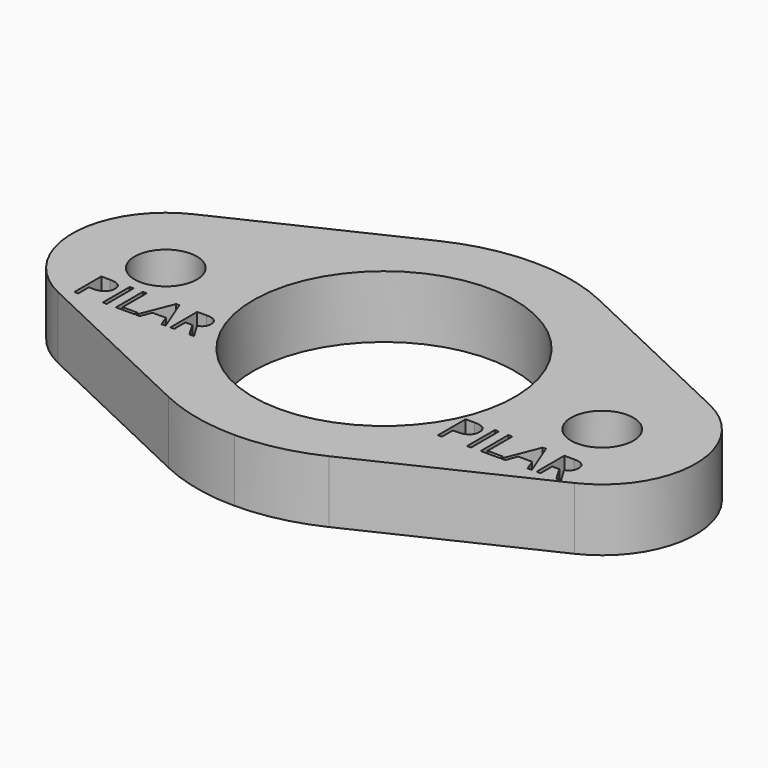
from build123d import *

# Parameters (mm, degrees)
F0_W     = 0.6460093453
F0_H     = 5.5586001861
F0_R     = 5
F0_W_2   = 0.6280364187
F0_H_2   = 5.4039517833
F1_DEPTH = 10


with BuildPart() as f1:
    # F0 (on Top) → F1 (new body)
    with BuildSketch(Plane.XY):
        with BuildLine():
            ThreePointArc((0, 21), (21, 0), (0, -21))
            Line((0, -21), (0, -30))
            ThreePointArc((0, -30), (6.5894949497, -29.2673633303), (12.8571428571, -27.1052370872))
            Line((12.8571428571, -27.1052370872), (41.4285714286, -13.5526185436))
            ThreePointArc((41.4285714286, -13.5526185436), (50, 0), (41.4285714286, 13.5526185436))
            Line((41.4285714286, 13.5526185436), (12.8571428571, 27.1052370872))
            ThreePointArc((12.8571428571, 27.1052370872), (6.5894949497, 29.2673633303), (0, 30))
            Line((0, 30), (0, 21))
        make_face()
        with BuildLine():
            add(Edge.make_bspline(
                [(21.3959532578, -8.5758308066), (23.4787555162, -8.5758308066), (23.4787555162, -10.1951122353)],
                knots=[0, 0, 0, 1, 1, 1], degree=2))
            add(Edge.make_bspline(
                [(23.4787555162, -10.1951122353), (23.4787555162, -11.0394257676), (22.9027001019, -11.4938221715)],
                knots=[0, 0, 0, 1, 1, 1], degree=2))
            add(Edge.make_bspline(
                [(22.9027001019, -11.4938221715), (22.3266446875, -11.9482185755), (21.2548288057, -11.9482185755)],
                knots=[0, 0, 0, 1, 1, 1], degree=2))
            Line((21.2548288057, -11.9482185755), (20.6003033297, -11.9482185755))
            Line((20.6003033297, -11.9482185755), (20.6003033297, -14.1344309927))
            Line((20.6003033297, -14.1344309927), (19.9542939844, -14.1344309927))
            Line((19.9542939844, -14.1344309927), (19.9542939844, -8.5758308066))
            Line((19.9542939844, -8.5758308066), (21.3959532578, -8.5758308066))
        make_face(mode=Mode.SUBTRACT)
        with Locations((24.9648203285, -11.3551308997)):
            Rectangle(F0_W, F0_H, mode=Mode.SUBTRACT)
        Polygon((29.9108673971, -14.1344309927), (26.8122124017, -14.1344309927), (26.8122124017, -8.5758308066), (27.458221747, -8.5758308066), (27.458221747, -13.5492511526), (29.9108673971, -13.5492511526), align=None, mode=Mode.SUBTRACT)
        Polygon((35.0168960644, -14.1344309927), (34.347771507, -14.1344309927), (33.6555317378, -12.3667255713), (31.427955257, -12.3667255713), (30.7442316184, -14.1344309927), (30.0897061424, -14.1344309927), (32.2868678705, -8.5527155947), (32.8306836471, -8.5527155947), align=None, mode=Mode.SUBTRACT)
        with BuildLine():
            Line((37.5875509545, -11.8229097947), (36.4269239951, -11.8229097947))
            Line((36.4269239951, -11.8229097947), (36.4269239951, -14.1344309927))
            Line((36.4269239951, -14.1344309927), (35.7809146498, -14.1344309927))
            Line((35.7809146498, -14.1344309927), (35.7809146498, -8.5758308066))
            Line((35.7809146498, -8.5758308066), (37.3053020503, -8.5758308066))
            add(Edge.make_bspline(
                [(37.3053020503, -8.5758308066), (38.328454328, -8.5758308066), (38.8169152548, -8.9675728202)],
                knots=[0, 0, 0, 1, 1, 1], degree=2))
            add(Edge.make_bspline(
                [(38.8169152548, -8.9675728202), (39.3053761816, -9.3593148337), (39.3053761816, -10.1464486312)],
                knots=[0, 0, 0, 1, 1, 1], degree=2))
            add(Edge.make_bspline(
                [(39.3053761816, -10.1464486312), (39.3053761816, -11.2486792655), (38.1873298759, -11.6367715088)],
                knots=[0, 0, 0, 1, 1, 1], degree=2))
            Line((38.1873298759, -11.6367715088), (39.6971181952, -14.1344309927))
            Line((39.6971181952, -14.1344309927), (38.9330996097, -14.1344309927))
            Line((38.9330996097, -14.1344309927), (37.5875509545, -11.8229097947))
        make_face(mode=Mode.SUBTRACT)
        with Locations((35, 0)):
            Circle(F0_R, mode=Mode.SUBTRACT)
        with BuildLine():
            Line((0, -30), (0, -21))
            ThreePointArc((0, -21), (-21, 0), (0, 21))
            Line((0, 21), (0, 30))
            ThreePointArc((0, 30), (-6.5894949497, 29.2673633303), (-12.8571428571, 27.1052370872))
            Line((-12.8571428571, 27.1052370872), (-41.4285714286, 13.5526185436))
            ThreePointArc((-41.4285714286, 13.5526185436), (-50, 0), (-41.4285714286, -13.5526185436))
            Line((-41.4285714286, -13.5526185436), (-12.8571428571, -27.1052370872))
            ThreePointArc((-12.8571428571, -27.1052370872), (-6.5894949497, -29.2673633303), (0, -30))
        make_face()
        with BuildLine():
            add(Edge.make_bspline(
                [(-38.4772362224, -6.8385926591), (-36.452380575, -6.8385926591), (-36.452380575, -8.4128233056)],
                knots=[0, 0, 0, 1, 1, 1], degree=2))
            add(Edge.make_bspline(
                [(-36.452380575, -8.4128233056), (-36.452380575, -9.2336467981), (-37.0124092836, -9.6754012282)],
                knots=[0, 0, 0, 1, 1, 1], degree=2))
            add(Edge.make_bspline(
                [(-37.0124092836, -9.6754012282), (-37.5724379921, -10.1171556583), (-38.6144343854, -10.1171556583)],
                knots=[0, 0, 0, 1, 1, 1], degree=2))
            Line((-38.6144343854, -10.1171556583), (-39.2507500036, -10.1171556583))
            Line((-39.2507500036, -10.1171556583), (-39.2507500036, -12.2425444424))
            Line((-39.2507500036, -12.2425444424), (-39.8787864223, -12.2425444424))
            Line((-39.8787864223, -12.2425444424), (-39.8787864223, -6.8385926591))
            Line((-39.8787864223, -6.8385926591), (-38.4772362224, -6.8385926591))
        make_face(mode=Mode.SUBTRACT)
        with Locations((-35.0076602635, -9.5405685508)):
            Rectangle(F0_W_2, F0_H_2, mode=Mode.SUBTRACT)
        Polygon((-30.1992194723, -12.2425444424), (-33.2116653449, -12.2425444424), (-33.2116653449, -6.8385926591), (-32.5836289263, -6.8385926591), (-32.5836289263, -11.673645163), (-30.1992194723, -11.673645163), align=None, mode=Mode.SUBTRACT)
        Polygon((-25.2352480049, -12.2425444424), (-25.8857565365, -12.2425444424), (-26.558737181, -10.5240191762), (-28.7243392198, -10.5240191762), (-29.3890406648, -12.2425444424), (-30.025356283, -12.2425444424), (-27.8893228138, -6.8161205462), (-27.360636789, -6.8161205462), align=None, mode=Mode.SUBTRACT)
        with Locations((-35, 0)):
            Circle(F0_R, mode=Mode.SUBTRACT)
        with BuildLine():
            Line((-22.7361125009, -9.9953331515), (-23.8644491175, -9.9953331515))
            Line((-23.8644491175, -9.9953331515), (-23.8644491175, -12.2425444424))
            Line((-23.8644491175, -12.2425444424), (-24.4924855361, -12.2425444424))
            Line((-24.4924855361, -12.2425444424), (-24.4924855361, -6.8385926591))
            Line((-24.4924855361, -6.8385926591), (-23.0105088269, -6.8385926591))
            add(Edge.make_bspline(
                [(-23.0105088269, -6.8385926591), (-22.015822145, -6.8385926591), (-21.5409509169, -7.2194358358)],
                knots=[0, 0, 0, 1, 1, 1], degree=2))
            add(Edge.make_bspline(
                [(-21.5409509169, -7.2194358358), (-21.0660796889, -7.6002790125), (-21.0660796889, -8.3655135942)],
                knots=[0, 0, 0, 1, 1, 1], degree=2))
            add(Edge.make_bspline(
                [(-21.0660796889, -8.3655135942), (-21.0660796889, -9.4370785571), (-22.153020308, -9.8143735054)],
                knots=[0, 0, 0, 1, 1, 1], degree=2))
            Line((-22.153020308, -9.8143735054), (-20.6852365122, -12.2425444424))
            Line((-20.6852365122, -12.2425444424), (-21.427998981, -12.2425444424))
            Line((-21.427998981, -12.2425444424), (-22.7361125009, -9.9953331515))
        make_face(mode=Mode.SUBTRACT)
    extrude(amount=F1_DEPTH)


solid = f1.part
